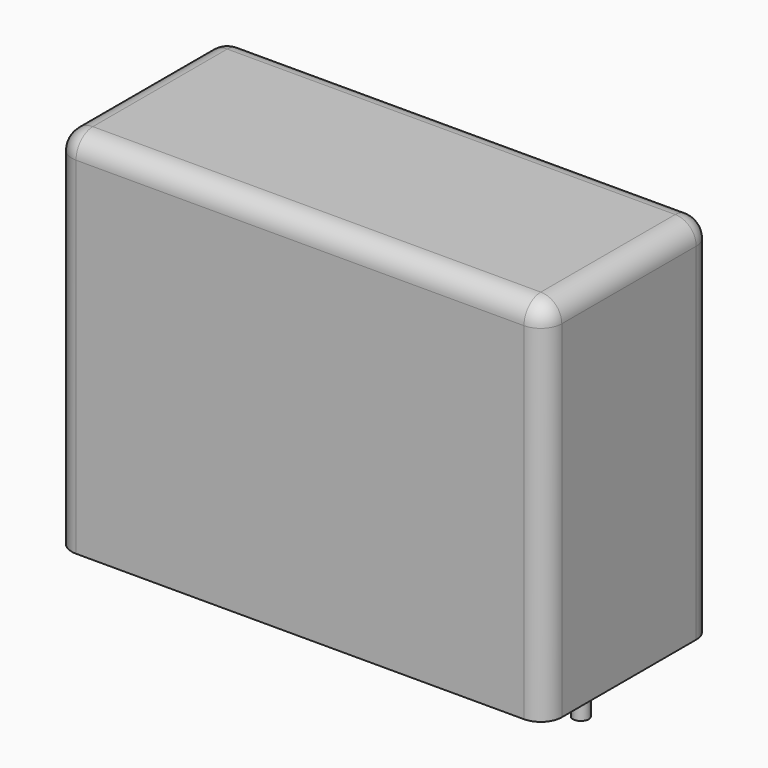
from build123d import *

# Parameters (mm, degrees)
SKETCH_W     = 28
SKETCH_H     = 12
PAD_DEPTH    = 21
FILLET_R     = 1.2
SKETCH001_R  = 0.45
PAD001_DEPTH = 3.2


with BuildPart() as fillet_body:
    # Sketch → Pad (new body)
    with BuildSketch(Plane.XY.offset(0.1)):
        with Locations((11.25, 0)):
            Rectangle(SKETCH_W, SKETCH_H)
    extrude(amount=PAD_DEPTH)

    # Fillet
    fillet_edges = [fillet_body.edges().sort_by_distance(p)[0] for p in [
        (-2.75, 0, 21.1),
        (-2.75, -6, 10.6),
        (11.25, -6, 21.1),
        (25.25, -6, 10.6),
        (25.25, 0, 21.1),
        (25.25, 6, 10.6),
        (11.25, 6, 21.1),
        (-2.75, 6, 10.6),
    ]]
    fillet(fillet_edges, radius=FILLET_R)


with BuildPart() as pad001:
    # Sketch001 → Pad001 (new body)
    with BuildSketch(Plane.XY.offset(0.5)):
        Circle(SKETCH001_R)
        with Locations((22.5, 0)):
            Circle(SKETCH001_R)
    extrude(amount=-PAD001_DEPTH)


solid = Compound([fillet_body.part, pad001.part])
